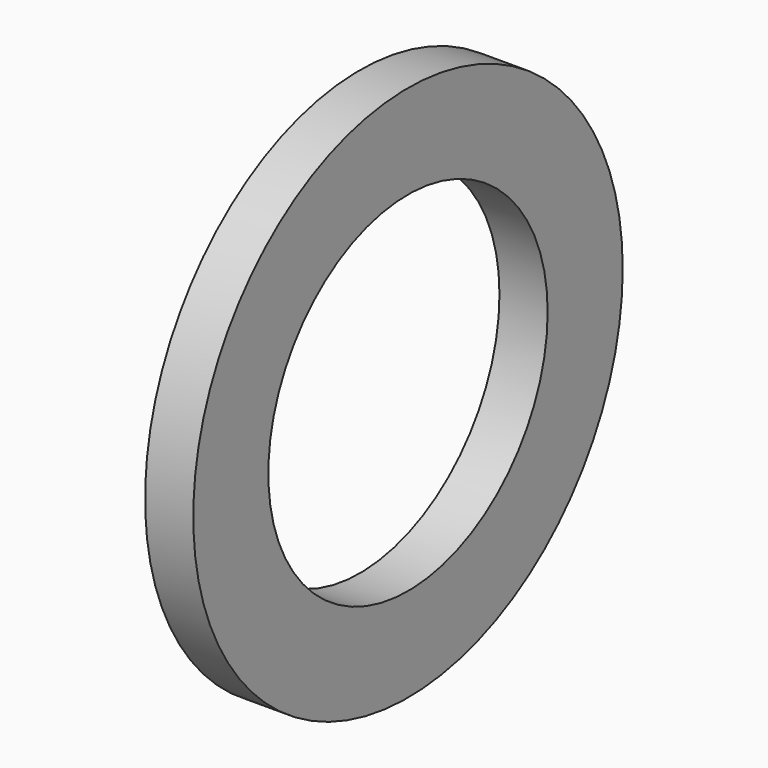
from build123d import *

# Parameters (mm, degrees)
F0_R     = 12.735068
F1_DEPTH = 2.286
F2_R     = 8.282979
F3_DEPTH = 12.7


with BuildPart() as f1:
    # F0 (on Right) → F1 (new body)
    with BuildSketch(Plane.YZ):
        Circle(F0_R)
    extrude(amount=F1_DEPTH)

    # F2 (on face) → F3 (cut, symmetric)
    with BuildSketch(Plane.YZ.offset(2.286)):
        Circle(F2_R)
    extrude(amount=F3_DEPTH, both=True, mode=Mode.SUBTRACT)


solid = f1.part
